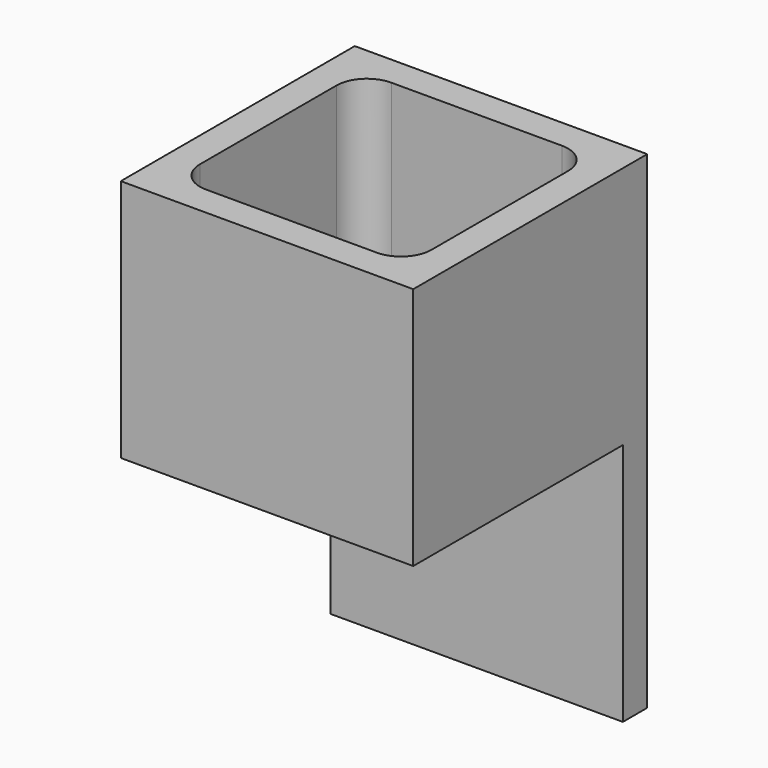
from build123d import *

# Parameters (mm, degrees)
F0_W     = 38
F0_H     = 38
F1_DEPTH = 1
F2_DEPTH = 40
F3_DEPTH = 40
F4_R     = 5


with BuildPart() as f1:
    # F0 (on Top) → F1 (new body)
    with BuildSketch(Plane.XY):
        with Locations((19, 19)):
            Rectangle(F0_W, F0_H)
    extrude(amount=F1_DEPTH)

    # F0 (on Top) → F2 (join)
    with BuildSketch(Plane.XY):
        Polygon((38, 0), (0, 0), (0, 38), (-5, 38), (-5, -5), (43, -5), (43, 38), (38, 38), align=None)
        Polygon((-5, 38), (0, 38), (38, 38), (43, 38), (43, 43), (-5, 43), align=None)
    extrude(amount=F2_DEPTH)

    # F0 (on Top) → F3 (join)
    with BuildSketch(Plane.XY):
        Polygon((-5, 38), (0, 38), (38, 38), (43, 38), (43, 43), (-5, 43), align=None)
    extrude(amount=-F3_DEPTH)

    # F4
    f4_edges = [f1.edges().sort_by_distance(p)[0] for p in [
        (0, 38, 20.5),
        (38, 38, 20.5),
        (38, 0, 20.5),
        (0, 0, 20.5),
    ]]
    fillet(f4_edges, radius=F4_R)


solid = f1.part
